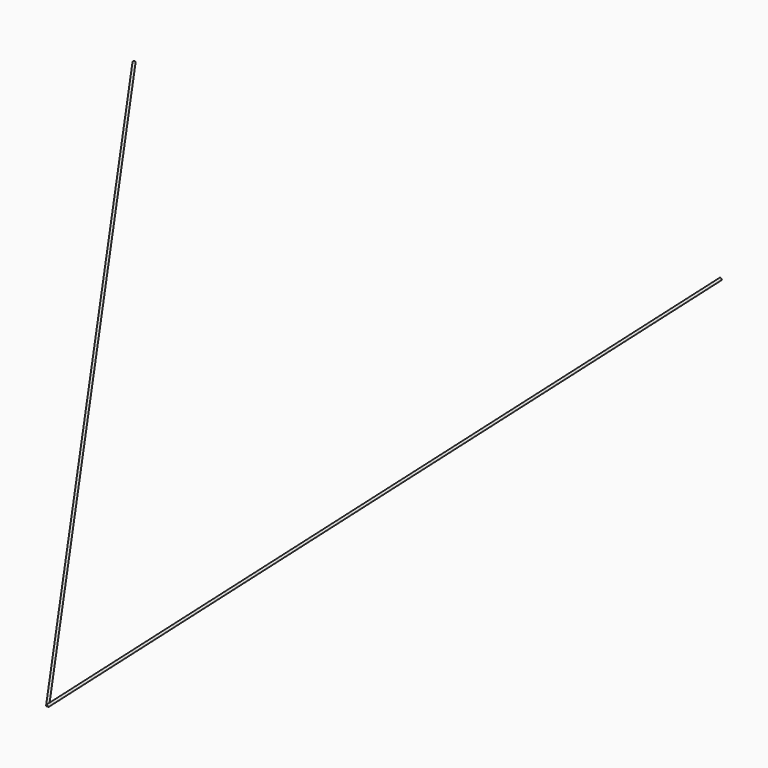
from build123d import *

# Parameters (mm, degrees)
F9_R = 5


with BuildPart() as f10:
    # F10: sweep along a path in F7
    with BuildLine(Plane(origin=(-872.012693821, -538.8591261817, 0), x_dir=(-0.5256786218, 0.8506832469, 0), z_dir=(0.8506832469, 0.5256786218, 0))) as f10_path:
        Line((633.4427392793, 5800), (-1658.8323314747, 4657))
    # F9 (on line) → F10 (sweep)
    with BuildSketch(Plane(origin=(-1484.2486992023, 2401.8962352236, 1407.8807163388), x_dir=(0.8824327652, 0.4058557621, 0.237893916), z_dir=(0.4704385347, -0.7612905748, -0.4462333984))):
        with Locations((316.4532304484, 5003.7640347677)):
            Circle(F9_R)
    sweep(path=f10_path.line)

    # F11: F10 across plane


with BuildPart() as f10_1:
    add(f10.part)
    add(f10.part.mirror(Plane.YZ))


solid = f10_1.part
